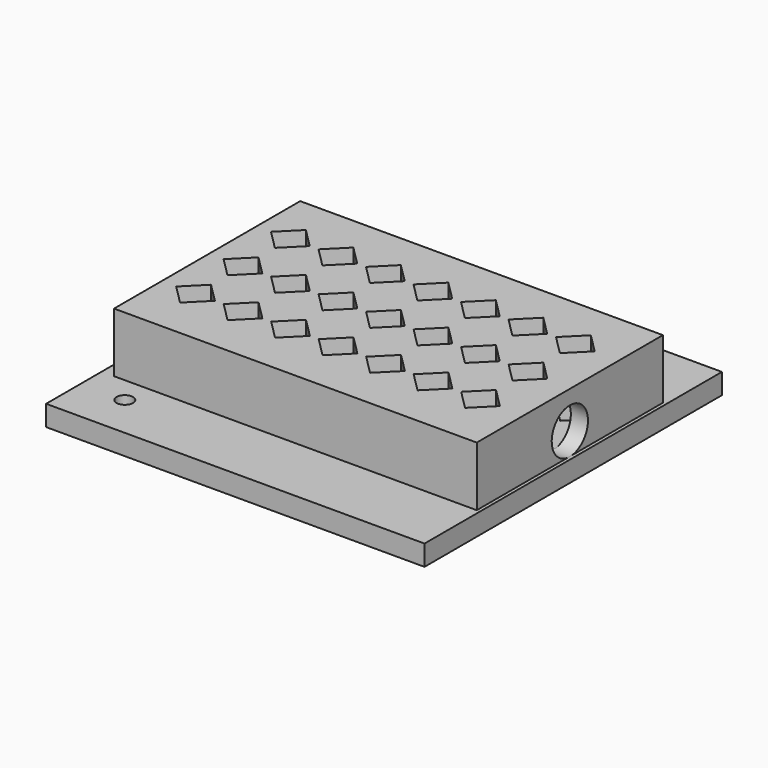
from build123d import *

# Parameters (mm, degrees)
F0_W     = 70.2237887111
F0_H     = 68.9864
F0_R     = 1.524
F1_DEPTH = 3.81
F2_DEPTH = 11.684
F3_W     = 67.31
F3_H     = 43.18
F4_DEPTH = 3.175
F5_R     = 4.2031918612
F6_DEPTH = 6.9546211207


with BuildPart() as f1:
    # F0 (on Top) → F1 (new body)
    with BuildSketch(Plane.XY):
        with Locations((6.5815807419, -39.2072151007)):
            Rectangle(F0_W, F0_H)
        with Locations((-20.3656354147, -65.6486151007)):
            Circle(F0_R, mode=Mode.SUBTRACT)
        Polygon((-16.3257805305, -49.7382482188), (-19.9178829789, -53.3303506672), (-23.5099854273, -49.7382482188), (-19.9178829789, -46.1461457704), align=None, mode=Mode.SUBTRACT)
        Polygon((-7.5119805305, -49.7382482188), (-11.1040829789, -53.3303506672), (-14.6961854273, -49.7382482188), (-11.1040829789, -46.1461457704), align=None, mode=Mode.SUBTRACT)
        Polygon((1.3018194695, -49.7382482188), (-2.2902829789, -53.3303506672), (-5.8823854273, -49.7382482188), (-2.2902829789, -46.1461457704), align=None, mode=Mode.SUBTRACT)
        Polygon((10.1156194695, -49.7382482188), (6.5235170211, -53.3303506672), (2.9314145727, -49.7382482188), (6.5235170211, -46.1461457704), align=None, mode=Mode.SUBTRACT)
        Polygon((18.9294194695, -49.7382482188), (15.3373170211, -53.3303506672), (11.7452145727, -49.7382482188), (15.3373170211, -46.1461457704), align=None, mode=Mode.SUBTRACT)
        Polygon((-23.0693106622, -57.6222163337), (37.8906893378, -57.6222163337), (37.8906893378, -20.7922163337), (-23.0693106622, -20.7922163337), (-26.2443106622, -20.7922163337), (-26.2443106622, -17.6172163337), (41.0656893378, -17.6172163337), (41.0656893378, -60.7972163337), (-26.2443106622, -60.7972163337), (-26.2443106622, -57.6222163337), align=None, mode=Mode.SUBTRACT)
        Polygon((27.7432194695, -49.7382482188), (24.1511170211, -53.3303506672), (20.5590145727, -49.7382482188), (24.1511170211, -46.1461457704), align=None, mode=Mode.SUBTRACT)
        Polygon((36.5570194695, -49.7382482188), (32.9649170211, -53.3303506672), (29.3728145727, -49.7382482188), (32.9649170211, -46.1461457704), align=None, mode=Mode.SUBTRACT)
        Polygon((-16.3257805305, -38.7400482188), (-19.9178829789, -42.3321506672), (-23.5099854273, -38.7400482188), (-19.9178829789, -35.1479457704), align=None, mode=Mode.SUBTRACT)
        Polygon((-7.5119805305, -38.7400482188), (-11.1040829789, -42.3321506672), (-14.6961854273, -38.7400482188), (-11.1040829789, -35.1479457704), align=None, mode=Mode.SUBTRACT)
        Polygon((-16.3257805305, -27.7418482188), (-19.9178829789, -31.3339506672), (-23.5099854273, -27.7418482188), (-19.9178829789, -24.1497457704), align=None, mode=Mode.SUBTRACT)
        Polygon((-7.5119805305, -27.7418482188), (-11.1040829789, -31.3339506672), (-14.6961854273, -27.7418482188), (-11.1040829789, -24.1497457704), align=None, mode=Mode.SUBTRACT)
        Polygon((1.3018194695, -38.7400482188), (-2.2902829789, -42.3321506672), (-5.8823854273, -38.7400482188), (-2.2902829789, -35.1479457704), align=None, mode=Mode.SUBTRACT)
        Polygon((10.1156194695, -38.7400482188), (6.5235170211, -42.3321506672), (2.9314145727, -38.7400482188), (6.5235170211, -35.1479457704), align=None, mode=Mode.SUBTRACT)
        Polygon((1.3018194695, -27.7418482188), (-2.2902829789, -31.3339506672), (-5.8823854273, -27.7418482188), (-2.2902829789, -24.1497457704), align=None, mode=Mode.SUBTRACT)
        Polygon((10.1156194695, -27.7418482188), (6.5235170211, -31.3339506672), (2.9314145727, -27.7418482188), (6.5235170211, -24.1497457704), align=None, mode=Mode.SUBTRACT)
        with Locations((-20.3656354147, -8.0382)):
            Circle(F0_R, mode=Mode.SUBTRACT)
        Polygon((18.9294194695, -38.7400482188), (15.3373170211, -42.3321506672), (11.7452145727, -38.7400482188), (15.3373170211, -35.1479457704), align=None, mode=Mode.SUBTRACT)
        Polygon((18.9294194695, -27.7418482188), (15.3373170211, -31.3339506672), (11.7452145727, -27.7418482188), (15.3373170211, -24.1497457704), align=None, mode=Mode.SUBTRACT)
        Polygon((27.7432194695, -38.7400482188), (24.1511170211, -42.3321506672), (20.5590145727, -38.7400482188), (24.1511170211, -35.1479457704), align=None, mode=Mode.SUBTRACT)
        Polygon((36.5570194695, -38.7400482188), (32.9649170211, -42.3321506672), (29.3728145727, -38.7400482188), (32.9649170211, -35.1479457704), align=None, mode=Mode.SUBTRACT)
        Polygon((27.7432194695, -27.7418482188), (24.1511170211, -31.3339506672), (20.5590145727, -27.7418482188), (24.1511170211, -24.1497457704), align=None, mode=Mode.SUBTRACT)
        Polygon((36.5570194695, -27.7418482188), (32.9649170211, -31.3339506672), (29.3728145727, -27.7418482188), (32.9649170211, -24.1497457704), align=None, mode=Mode.SUBTRACT)
        Polygon((37.8906893378, -20.7922163337), (37.8906893378, -57.6222163337), (-23.0693106622, -57.6222163337), (-26.2443106622, -57.6222163337), (-26.2443106622, -60.7972163337), (41.0656893378, -60.7972163337), (41.0656893378, -17.6172163337), (-26.2443106622, -17.6172163337), (-26.2443106622, -20.7922163337), (-23.0693106622, -20.7922163337), align=None)
    extrude(amount=F1_DEPTH)

    # F0 (on Top) → F2 (join)
    with BuildSketch(Plane.XY):
        Polygon((37.8906893378, -20.7922163337), (37.8906893378, -57.6222163337), (-23.0693106622, -57.6222163337), (-26.2443106622, -57.6222163337), (-26.2443106622, -60.7972163337), (41.0656893378, -60.7972163337), (41.0656893378, -17.6172163337), (-26.2443106622, -17.6172163337), (-26.2443106622, -20.7922163337), (-23.0693106622, -20.7922163337), align=None)
    extrude(amount=F2_DEPTH)

    # F3 (on face) → F4 (join)
    with BuildSketch(Plane.XY.offset(11.684)):
        with Locations((7.4106893378, -39.2072163337)):
            Rectangle(F3_W, F3_H)
        Polygon((-16.3515744405, -49.7663369077), (-19.9436768889, -53.3584393561), (-23.5357793374, -49.7663369077), (-19.9436768889, -46.1742344592), align=None, mode=Mode.SUBTRACT)
        Polygon((-7.5377744405, -49.7663369077), (-11.1298768889, -53.3584393561), (-14.7219793374, -49.7663369077), (-11.1298768889, -46.1742344592), align=None, mode=Mode.SUBTRACT)
        Polygon((1.2760255595, -49.7663369077), (-2.3160768889, -53.3584393561), (-5.9081793374, -49.7663369077), (-2.3160768889, -46.1742344592), align=None, mode=Mode.SUBTRACT)
        Polygon((10.0898255595, -49.7663369077), (6.4977231111, -53.3584393561), (2.9056206626, -49.7663369077), (6.4977231111, -46.1742344592), align=None, mode=Mode.SUBTRACT)
        Polygon((18.9036255595, -49.7663369077), (15.3115231111, -53.3584393561), (11.7194206626, -49.7663369077), (15.3115231111, -46.1742344592), align=None, mode=Mode.SUBTRACT)
        Polygon((27.7174255595, -49.7663369077), (24.1253231111, -53.3584393561), (20.5332206626, -49.7663369077), (24.1253231111, -46.1742344592), align=None, mode=Mode.SUBTRACT)
        Polygon((36.5312255595, -49.7663369077), (32.9391231111, -53.3584393561), (29.3470206626, -49.7663369077), (32.9391231111, -46.1742344592), align=None, mode=Mode.SUBTRACT)
        Polygon((-16.3515744405, -38.7681369077), (-19.9436768889, -42.3602393561), (-23.5357793374, -38.7681369077), (-19.9436768889, -35.1760344592), align=None, mode=Mode.SUBTRACT)
        Polygon((-7.5377744405, -38.7681369077), (-11.1298768889, -42.3602393561), (-14.7219793374, -38.7681369077), (-11.1298768889, -35.1760344592), align=None, mode=Mode.SUBTRACT)
        Polygon((1.2760255595, -38.7681369077), (-2.3160768889, -42.3602393561), (-5.9081793374, -38.7681369077), (-2.3160768889, -35.1760344592), align=None, mode=Mode.SUBTRACT)
        Polygon((10.0898255595, -38.7681369077), (6.4977231111, -42.3602393561), (2.9056206626, -38.7681369077), (6.4977231111, -35.1760344592), align=None, mode=Mode.SUBTRACT)
        Polygon((-16.3515744405, -27.7699369077), (-19.9436768889, -31.3620393561), (-23.5357793374, -27.7699369077), (-19.9436768889, -24.1778344592), align=None, mode=Mode.SUBTRACT)
        Polygon((-7.5377744405, -27.7699369077), (-11.1298768889, -31.3620393561), (-14.7219793374, -27.7699369077), (-11.1298768889, -24.1778344592), align=None, mode=Mode.SUBTRACT)
        Polygon((1.2760255595, -27.7699369077), (-2.3160768889, -31.3620393561), (-5.9081793374, -27.7699369077), (-2.3160768889, -24.1778344592), align=None, mode=Mode.SUBTRACT)
        Polygon((10.0898255595, -27.7699369077), (6.4977231111, -31.3620393561), (2.9056206626, -27.7699369077), (6.4977231111, -24.1778344592), align=None, mode=Mode.SUBTRACT)
        Polygon((18.9036255595, -38.7681369077), (15.3115231111, -42.3602393561), (11.7194206626, -38.7681369077), (15.3115231111, -35.1760344592), align=None, mode=Mode.SUBTRACT)
        Polygon((27.7174255595, -38.7681369077), (24.1253231111, -42.3602393561), (20.5332206626, -38.7681369077), (24.1253231111, -35.1760344592), align=None, mode=Mode.SUBTRACT)
        Polygon((36.5312255595, -38.7681369077), (32.9391231111, -42.3602393561), (29.3470206626, -38.7681369077), (32.9391231111, -35.1760344592), align=None, mode=Mode.SUBTRACT)
        Polygon((18.9036255595, -27.7699369077), (15.3115231111, -31.3620393561), (11.7194206626, -27.7699369077), (15.3115231111, -24.1778344592), align=None, mode=Mode.SUBTRACT)
        Polygon((27.7174255595, -27.7699369077), (24.1253231111, -31.3620393561), (20.5332206626, -27.7699369077), (24.1253231111, -24.1778344592), align=None, mode=Mode.SUBTRACT)
        Polygon((36.5312255595, -27.7699369077), (32.9391231111, -31.3620393561), (29.3470206626, -27.7699369077), (32.9391231111, -24.1778344592), align=None, mode=Mode.SUBTRACT)
    extrude(amount=F4_DEPTH)

    # F5 (on face) → F6 (cut, through all)
    with BuildSketch(Plane.YZ.offset(41.0656893378)):
        with Locations((-39.2072163337, 7.9764248803)):
            Circle(F5_R)
    extrude(amount=-F6_DEPTH, mode=Mode.SUBTRACT)


solid = f1.part
